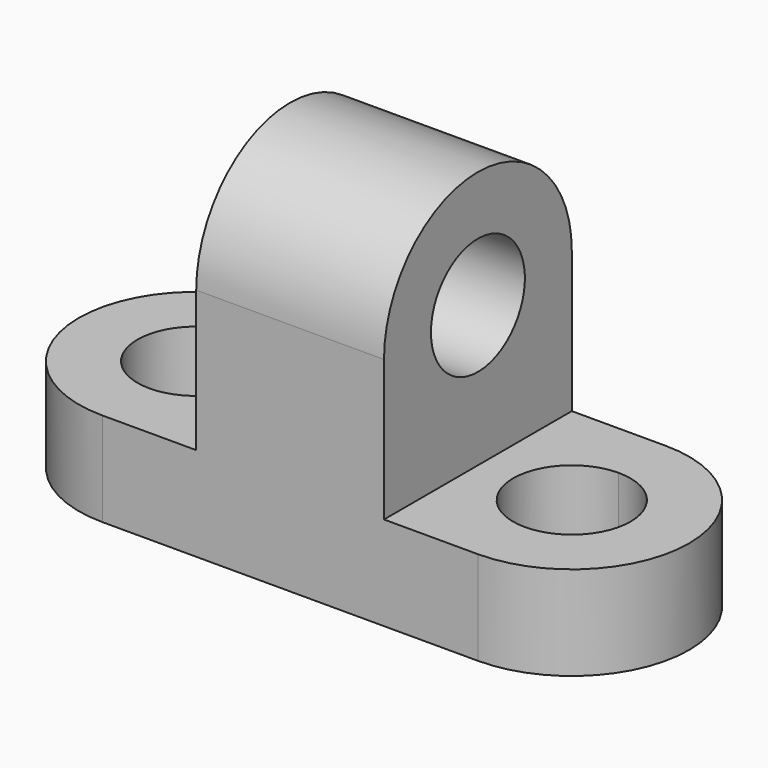
from build123d import *

# Parameters (mm, degrees)
F1_DEPTH = 20
F3_DEPTH = 20


with BuildPart() as f1:
    # F0 (on Right) → F1 (new body, symmetric)
    with BuildSketch(Plane.YZ):
        with BuildLine():
            Line((-25, 50), (-25, 0))
            Line((-25, 0), (25, 0))
            Line((25, 0), (25, 50))
            Line((25, 50), (12.5, 50))
            ThreePointArc((12.5, 50), (0, 37.5), (-12.5, 50))
            Line((-12.5, 50), (-25, 50))
        make_face()
        with BuildLine():
            ThreePointArc((25, 50), (0, 75), (-25, 50))
            Line((-25, 50), (-12.5, 50))
            ThreePointArc((-12.5, 50), (0, 62.5), (12.5, 50))
            Line((12.5, 50), (25, 50))
        make_face()
    extrude(amount=F1_DEPTH, both=True)

    # F2 (on Top) → F3 (join)
    with BuildSketch(Plane.XY):
        with BuildLine():
            Line((40, 25), (0, 25))
            Line((0, 25), (0, -25))
            Line((0, -25), (40, -25))
            Line((40, -25), (40, -12.5))
            ThreePointArc((40, -12.5), (27.5, 0), (40, 12.5))
            Line((40, 12.5), (40, 25))
        make_face()
        with BuildLine():
            Line((0, -25), (0, 25))
            Line((0, 25), (-40, 25))
            Line((-40, 25), (-40, 12.5))
            ThreePointArc((-40, 12.5), (-31.161165, 8.838835), (-27.5, 0))
            ThreePointArc((-27.5, 0), (-31.161165, -8.838835), (-40, -12.5))
            Line((-40, -12.5), (-40, -25))
            Line((-40, -25), (0, -25))
        make_face()
        with BuildLine():
            Line((-40, 12.5), (-40, 25))
            ThreePointArc((-40, 25), (-65, 0), (-40, -25))
            Line((-40, -25), (-40, -12.5))
            ThreePointArc((-40, -12.5), (-52.5, 0), (-40, 12.5))
        make_face()
        with BuildLine():
            ThreePointArc((40, -25), (65, 0), (40, 25))
            Line((40, 25), (40, 12.5))
            ThreePointArc((40, 12.5), (48.838835, 8.838835), (52.5, 0))
            ThreePointArc((52.5, 0), (48.838835, -8.838835), (40, -12.5))
            Line((40, -12.5), (40, -25))
        make_face()
    extrude(amount=F3_DEPTH)


solid = f1.part
